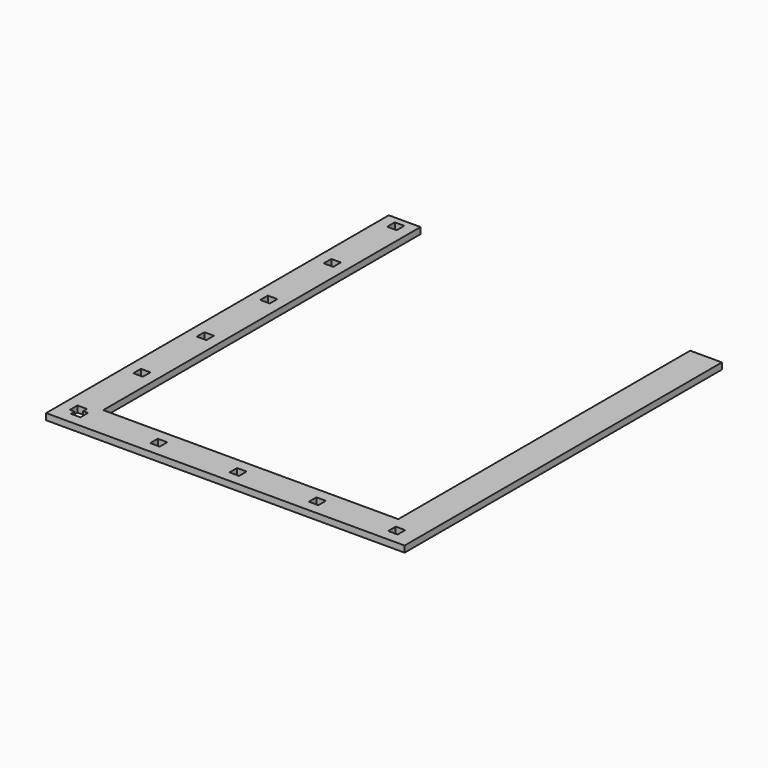
from build123d import *

# Parameters (mm, degrees)
F0_W     = 12
F0_H     = 12
F1_DEPTH = 8


with BuildPart() as f1:
    # F0 (on Top) → F1 (new body)
    with BuildSketch(Plane.XY):
        Polygon((-199.250624, -177.360311), (252.749376, -177.360311), (252.749376, 322.639689), (212.749376, 322.639689), (212.749376, -137.360311), (26.749376, -137.360311), (-159.250624, -137.360311), (-159.250624, 362.639689), (-199.250624, 362.639689), align=None)
        Polygon((-179.250624, -163.360311), (-179.250624, -157.360311), (-185.250624, -157.360311), (-185.250624, -145.360311), (-173.250624, -145.360311), (-173.250624, -151.360311), (-167.250624, -151.360311), (-167.250624, -163.360311), align=None, mode=Mode.SUBTRACT)
        with Locations((-179.250624, -51.360311)):
            Rectangle(F0_W, F0_H, mode=Mode.SUBTRACT)
        with Locations((-73.250624, -157.360311)):
            Rectangle(F0_W, F0_H, mode=Mode.SUBTRACT)
        with Locations((-179.250624, 48.639689)):
            Rectangle(F0_W, F0_H, mode=Mode.SUBTRACT)
        Polygon((20.749376, -151.360311), (26.749376, -151.360311), (32.749376, -151.360311), (32.749376, -163.360311), (20.749376, -163.360311), align=None, mode=Mode.SUBTRACT)
        with Locations((126.749376, -157.360311)):
            Rectangle(F0_W, F0_H, mode=Mode.SUBTRACT)
        with Locations((226.749376, -157.360311)):
            Rectangle(F0_W, F0_H, mode=Mode.SUBTRACT)
        with Locations((-179.250624, 148.639689)):
            Rectangle(F0_W, F0_H, mode=Mode.SUBTRACT)
        with Locations((-179.250624, 248.639689)):
            Rectangle(F0_W, F0_H, mode=Mode.SUBTRACT)
        with Locations((-179.250624, 348.639689)):
            Rectangle(F0_W, F0_H, mode=Mode.SUBTRACT)
    extrude(amount=F1_DEPTH)


solid = f1.part
